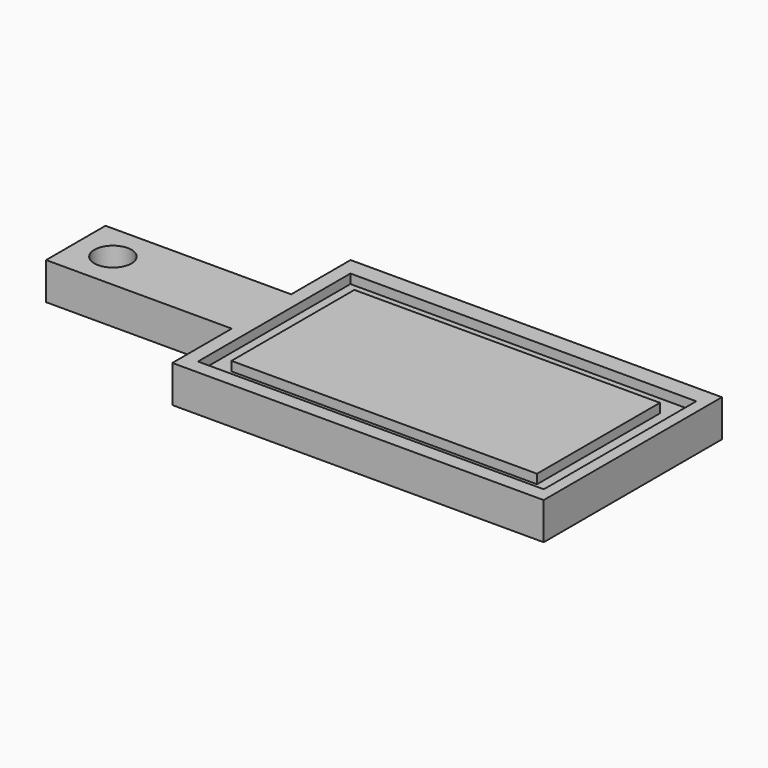
from build123d import *

# Parameters (mm, degrees)
F0_W     = 127
F0_H     = 50.8
F1_DEPTH = 25.4
F2_R     = 12.7
F3_DEPTH = 25.4
F4_W     = 236.584601
F4_H     = 130.351219
F4_W_2   = 209.021354
F4_H_2   = 105.084905
F5_DEPTH = 6.35


with BuildPart() as f1:
    # F0 (on Top) → F1 (new body)
    with BuildSketch(Plane.XY):
        Polygon((0, 50.8), (0, 0), (254, 0), (254, 152.4), (0, 152.4), (0, 101.6), align=None)
        with Locations((-63.5, 76.2)):
            Rectangle(F0_W, F0_H)
    extrude(amount=F1_DEPTH)

    # F2 (on face) → F3 (cut)
    with BuildSketch(Plane.XY.offset(25.4)):
        with Locations((-101.6, 76.2)):
            Circle(F2_R)
    extrude(amount=-F3_DEPTH, mode=Mode.SUBTRACT)

    # F4 (on face) → F5 (cut)
    with BuildSketch(Plane.XY.offset(25.4)):
        with Locations((127.957823, 74.994562)):
            Rectangle(F4_W, F4_H)
        with Locations((127.670708, 74.133212)):
            Rectangle(F4_W_2, F4_H_2, mode=Mode.SUBTRACT)
    extrude(amount=-F5_DEPTH, mode=Mode.SUBTRACT)


solid = f1.part
